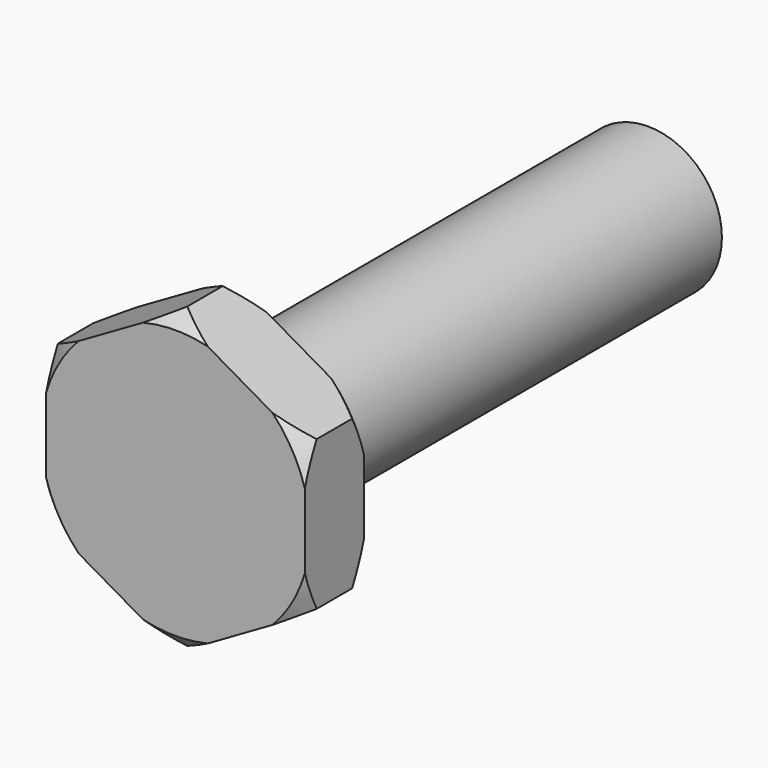
from build123d import *

# Parameters (mm, degrees)
F0_R     = 3.175
F1_DEPTH = 22.225
F2_R     = 3.175
F3_DEPTH = 3.175


with BuildPart() as f1:
    # F0 (on Front) → F1 (new body)
    with BuildSketch(Plane.XZ):
        Circle(F0_R)
    extrude(amount=F1_DEPTH)

    # F2 (on face) → F3 (join)
    with BuildSketch(Plane.XZ.offset(22.225)):
        Polygon((5.5626, 3.2115686074), (0, 6.4231372148), (-5.5626, 3.2115686074), (-5.5626, -3.2115686074), (0, -6.4231372148), (5.5626, -3.2115686074), align=None)
        Circle(F2_R, mode=Mode.SUBTRACT)
        Circle(F2_R)
    extrude(amount=F3_DEPTH)

    # F4 (on Right) → F5 (revolve, cut)
    with BuildSketch(Plane.YZ):
        Polygon((-24.765, 6.4231372148), (-25.4, 6.4231372148), (-25.4, 5.7881372148), align=None)
        Polygon((-22.225, 5.7881372148), (-22.225, 6.4231372148), (-22.86, 6.4231372148), align=None)
    revolve(axis=Axis((0, 0, 0), (0, 1, 0)), mode=Mode.SUBTRACT)


solid = f1.part
